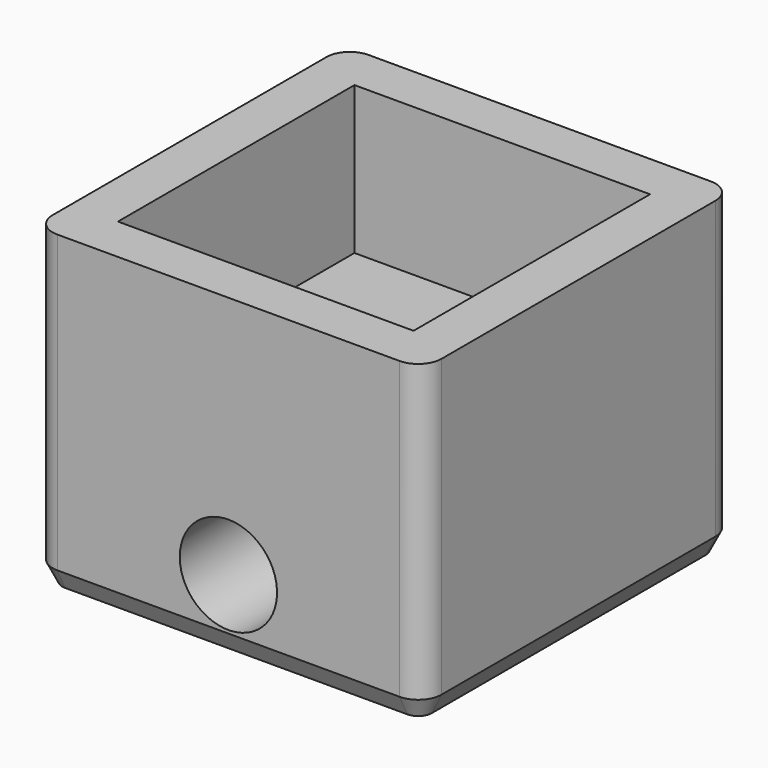
from build123d import *

# Parameters (mm, degrees)
F0_W     = 20
F0_H     = 20
F0_W_2   = 15.2
F0_H_2   = 15.2
F1_DEPTH = 10
F2_T     = -2.4
F3_DEPTH = 6.2
F4_R     = 2.5
F5_DEPTH = 20.001
F6_R     = 1.2
F7_SIZE2 = 1
F7_SIZE  = 0.5


with BuildPart() as f1:
    # F0 (on Top) → F1 (new body)
    with BuildSketch(Plane.XY):
        Rectangle(F0_W, F0_H)
        Rectangle(F0_W_2, F0_H_2, mode=Mode.SUBTRACT)
        Rectangle(F0_W_2, F0_H_2)
    extrude(amount=F1_DEPTH)

    # F2
    f2_openings = [f1.faces().sort_by_distance(p)[0] for p in [
        (0, 0, 10),
    ]]
    offset(amount=F2_T, openings=f2_openings)

    # F3 (add): a face of the model
    f3_faces = [f1.faces().sort_by_distance(p)[0] for p in [
        (0, 0, 0),
    ]]
    extrude(f3_faces, amount=F3_DEPTH)

    # F4 (on face) → F5 (cut, through all)
    with BuildSketch(Plane(origin=(0, 10, 0), x_dir=(-1, 0, 0), z_dir=(0, 1, 0))):
        with Locations((0, -2.5408927461)):
            Circle(F4_R)
    extrude(amount=-F5_DEPTH, mode=Mode.SUBTRACT)

    # F6
    f6_edges = [f1.edges().sort_by_distance(p)[0] for p in [
        (-10, 10, 1.9),
        (10, 10, 1.9),
        (10, -10, 1.9),
        (-10, -10, 1.9),
    ]]
    fillet(f6_edges, radius=F6_R)

    # F7
    f7_edges = [f1.edges().sort_by_distance(p)[0] for p in [
        (10, 0, -6.2),
        (9.648528, -9.648528, -6.2),
        (9.648528, 9.648528, -6.2),
        (0, -10, -6.2),
        (0, 10, -6.2),
        (-9.648528, -9.648528, -6.2),
        (-9.648528, 9.648528, -6.2),
        (-10, 0, -6.2),
    ]]
    f7_side = f1.faces().sort_by_distance((0, 0, -6.2))[0]
    chamfer(f7_edges, length=F7_SIZE, length2=F7_SIZE2, reference=f7_side)


solid = f1.part
